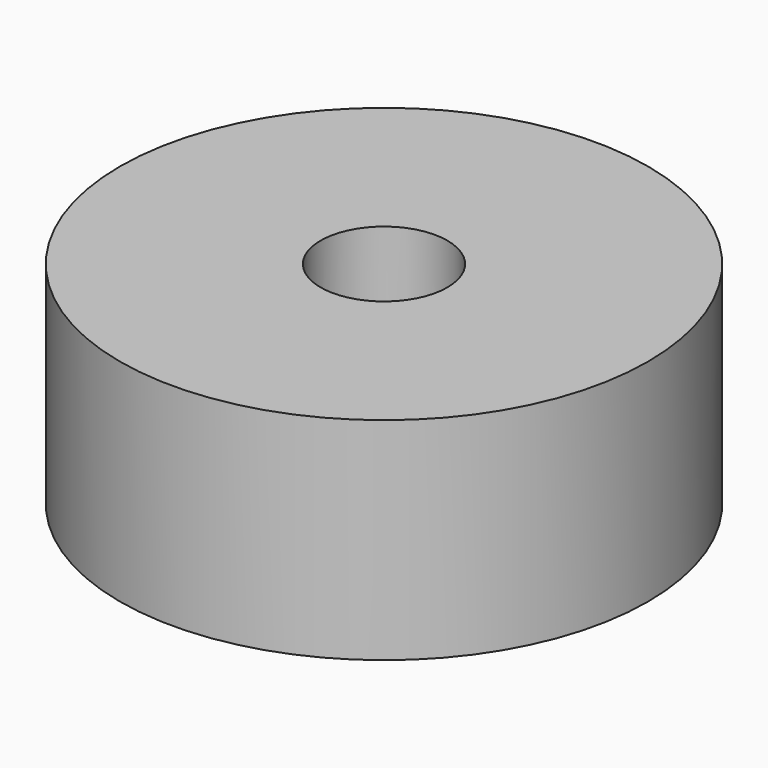
from build123d import *

# Parameters (mm, degrees)
F0_R     = 9.525
F1_DEPTH = 7.62
F2_R     = 2.286
F3_DEPTH = 25.4
F4_R     = 1.905
F5_DEPTH = 25.4


with BuildPart() as f1:
    # F0 (on Top) → F1 (new body)
    with BuildSketch(Plane.XY):
        Circle(F0_R)
    extrude(amount=F1_DEPTH)

    # F2 (on face) → F3 (cut)
    with BuildSketch(Plane.XY.offset(7.62)):
        Circle(F2_R)
    extrude(amount=-F3_DEPTH, mode=Mode.SUBTRACT)

    # F4 (on Right) → F5 (cut)
    with BuildSketch(Plane.YZ):
        with Locations((0, 3.81)):
            Circle(F4_R)
    extrude(amount=-F5_DEPTH, mode=Mode.SUBTRACT)


solid = f1.part
